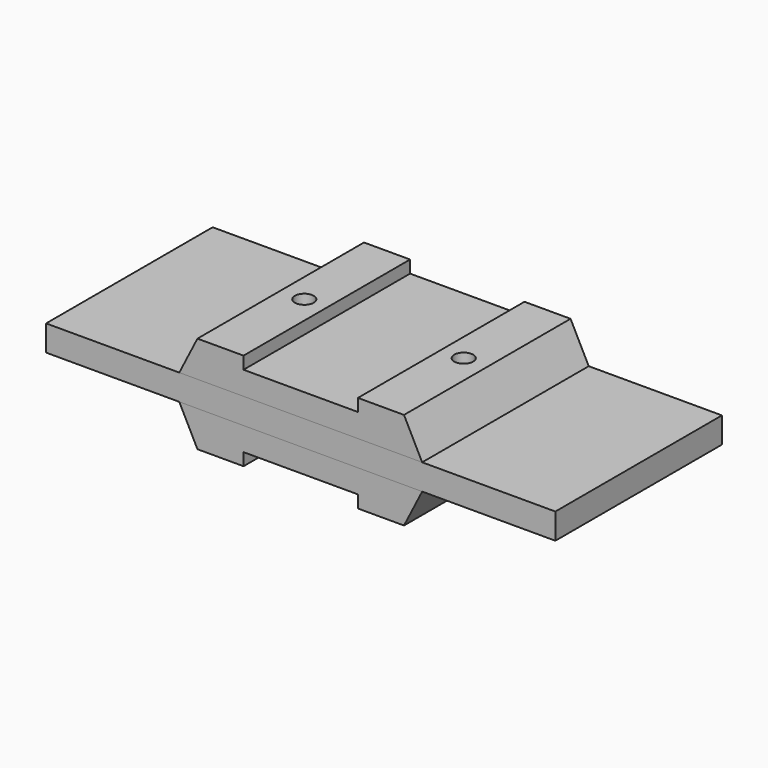
from build123d import *

# Parameters (mm, degrees)
F0_W     = 113.75
F0_H     = 46.5
F1_DEPTH = 2.875
F3_DEPTH = 46.5
F4_R     = 2.11
F5_DEPTH = 8


with BuildPart() as f1:
    # F0 (on Top) → F1 (new body, symmetric)
    with BuildSketch(Plane.XY):
        with Locations((56.875, 23.25)):
            Rectangle(F0_W, F0_H)
    extrude(amount=F1_DEPTH, both=True)


with BuildPart() as f3:
    # F2 (on face) → F3 (new body)
    with BuildSketch(Plane.XZ):
        Polygon((84, -2.875), (29.75, -2.875), (33.81, -10.875), (44.1, -10.875), (44.1, -8.1), (69.65, -8.1), (69.65, -10.875), (79.94, -10.875), align=None)
        Polygon((33.81, 10.875), (29.75, 2.875), (84, 2.875), (79.94, 10.875), (69.65, 10.875), (69.65, 8.1), (44.1, 8.1), (44.1, 10.875), align=None)
    extrude(amount=-F3_DEPTH)

    # F4 (on face) → F5 (cut, through all)
    with BuildSketch(Plane.XY.offset(2.875)):
        with Locations((39.075, 23.25)):
            Circle(F4_R)
        with Locations((74.675, 23.25)):
            Circle(F4_R)
    extrude(amount=F5_DEPTH, mode=Mode.SUBTRACT)


solid = Compound([f1.part, f3.part])
